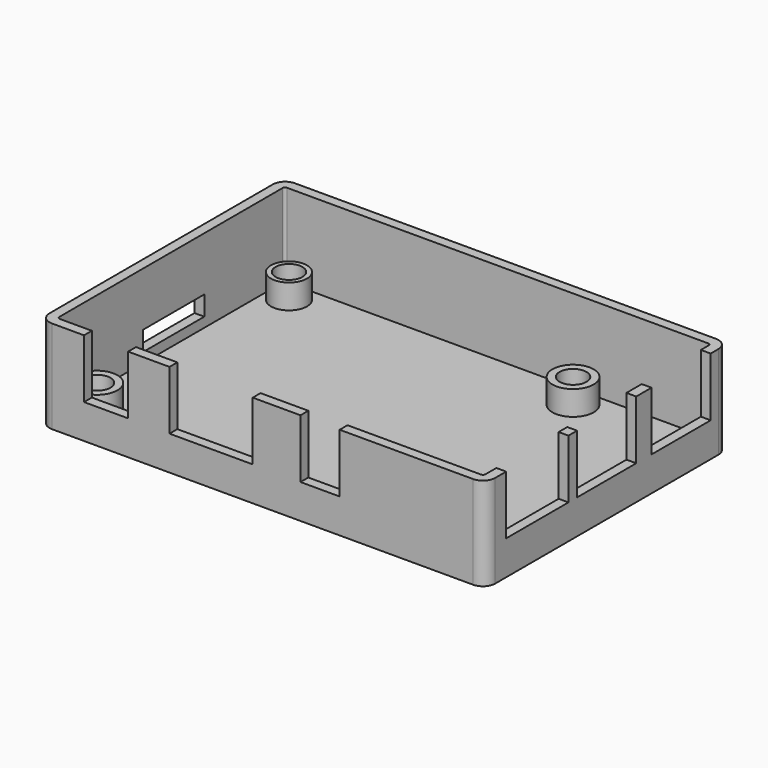
from build123d import *

# Parameters (mm, degrees)
F1_DEPTH = 2
F2_DEPTH = 19
F3_R     = 3.678544
F3_R_2   = 2.75
F3_R_3   = 4.215462
F3_R_4   = 4.179516
F3_R_5   = 4.278838
F4_DEPTH = 5
F5_W     = 2
F5_H     = 15.1
F5_H_2   = 15.9
F5_W_2   = 9
F5_H_3   = 2
F5_W_3   = 17
F5_W_4   = 8
F6_DEPTH = 12
F7_W     = 15.6
F7_H     = 4
F8_DEPTH = 2


with BuildPart() as f1:
    # F0 (on Top) → F1 (new body)
    with BuildSketch(Plane.XY):
        with BuildLine():
            Line((88.5, 0), (2.5, 0))
            ThreePointArc((2.5, 0), (0.732233, -0.732233), (0, -2.5))
            Line((0, -2.5), (0, -59.5))
            ThreePointArc((0, -59.5), (0.732233, -61.267767), (2.5, -62))
            Line((2.5, -62), (88.5, -62))
            ThreePointArc((88.5, -62), (90.267767, -61.267767), (91, -59.5))
            Line((91, -59.5), (91, -2.5))
            ThreePointArc((91, -2.5), (90.267767, -0.732233), (88.5, 0))
        make_face()
        with BuildLine():
            ThreePointArc((2, -2.5), (2.146447, -2.146447), (2.5, -2))
            Line((2.5, -2), (88.5, -2))
            ThreePointArc((88.5, -2), (88.853553, -2.146447), (89, -2.5))
            Line((89, -2.5), (89, -59.5))
            ThreePointArc((89, -59.5), (88.853553, -59.853553), (88.5, -60))
            Line((88.5, -60), (2.5, -60))
            ThreePointArc((2.5, -60), (2.146447, -59.853553), (2, -59.5))
            Line((2, -59.5), (2, -2.5))
        make_face(mode=Mode.SUBTRACT)
        with BuildLine():
            Line((88.5, -2), (2.5, -2))
            ThreePointArc((2.5, -2), (2.146447, -2.146447), (2, -2.5))
            Line((2, -2.5), (2, -59.5))
            ThreePointArc((2, -59.5), (2.146447, -59.853553), (2.5, -60))
            Line((2.5, -60), (88.5, -60))
            ThreePointArc((88.5, -60), (88.853553, -59.853553), (89, -59.5))
            Line((89, -59.5), (89, -2.5))
            ThreePointArc((89, -2.5), (88.853553, -2.146447), (88.5, -2))
        make_face()
    extrude(amount=F1_DEPTH)

    # F0 (on Top) → F2 (join)
    with BuildSketch(Plane.XY):
        with BuildLine():
            Line((88.5, 0), (2.5, 0))
            ThreePointArc((2.5, 0), (0.732233, -0.732233), (0, -2.5))
            Line((0, -2.5), (0, -59.5))
            ThreePointArc((0, -59.5), (0.732233, -61.267767), (2.5, -62))
            Line((2.5, -62), (88.5, -62))
            ThreePointArc((88.5, -62), (90.267767, -61.267767), (91, -59.5))
            Line((91, -59.5), (91, -2.5))
            ThreePointArc((91, -2.5), (90.267767, -0.732233), (88.5, 0))
        make_face()
        with BuildLine():
            ThreePointArc((2, -2.5), (2.146447, -2.146447), (2.5, -2))
            Line((2.5, -2), (88.5, -2))
            ThreePointArc((88.5, -2), (88.853553, -2.146447), (89, -2.5))
            Line((89, -2.5), (89, -59.5))
            ThreePointArc((89, -59.5), (88.853553, -59.853553), (88.5, -60))
            Line((88.5, -60), (2.5, -60))
            ThreePointArc((2.5, -60), (2.146447, -59.853553), (2, -59.5))
            Line((2, -59.5), (2, -2.5))
        make_face(mode=Mode.SUBTRACT)
    extrude(amount=F2_DEPTH)

    # F3 (on face) → F4 (join)
    with BuildSketch(Plane.XY.offset(2)):
        with Locations((6.5, -6.5)):
            Circle(F3_R)
        with Locations((6.5, -6.5)):
            Circle(F3_R_2, mode=Mode.SUBTRACT)
        with Locations((64.5, -6.5)):
            Circle(F3_R_3)
        with Locations((64.5, -6.5)):
            Circle(F3_R_2, mode=Mode.SUBTRACT)
        with Locations((6.5, -55.5)):
            Circle(F3_R_4)
        with Locations((6.5, -55.5)):
            Circle(F3_R_2, mode=Mode.SUBTRACT)
        with Locations((64.5, -55.5)):
            Circle(F3_R_5)
        with Locations((64.5, -55.5)):
            Circle(F3_R_2, mode=Mode.SUBTRACT)
    extrude(amount=F4_DEPTH)

    # F5 (on face) → F6 (cut)
    with BuildSketch(Plane.XY.offset(19)):
        with Locations((90, -12.05)):
            Rectangle(F5_W, F5_H)
        with Locations((90, -31.05)):
            Rectangle(F5_W, F5_H)
        with Locations((90, -48.75)):
            Rectangle(F5_W, F5_H_2)
        with Locations((13.55, -61)):
            Rectangle(F5_W_2, F5_H_3)
        with Locations((35, -61)):
            Rectangle(F5_W_3, F5_H_3)
        with Locations((57.25, -61)):
            Rectangle(F5_W_4, F5_H_3)
    extrude(amount=-F6_DEPTH, mode=Mode.SUBTRACT)

    # F7 (on face) → F8 (cut)
    with BuildSketch(Plane(origin=(0, 0, 0), x_dir=(0, -1, 0), z_dir=(-1, 0, 0))):
        with Locations((30.3, 6)):
            Rectangle(F7_W, F7_H)
    extrude(amount=-F8_DEPTH, mode=Mode.SUBTRACT)


solid = f1.part
